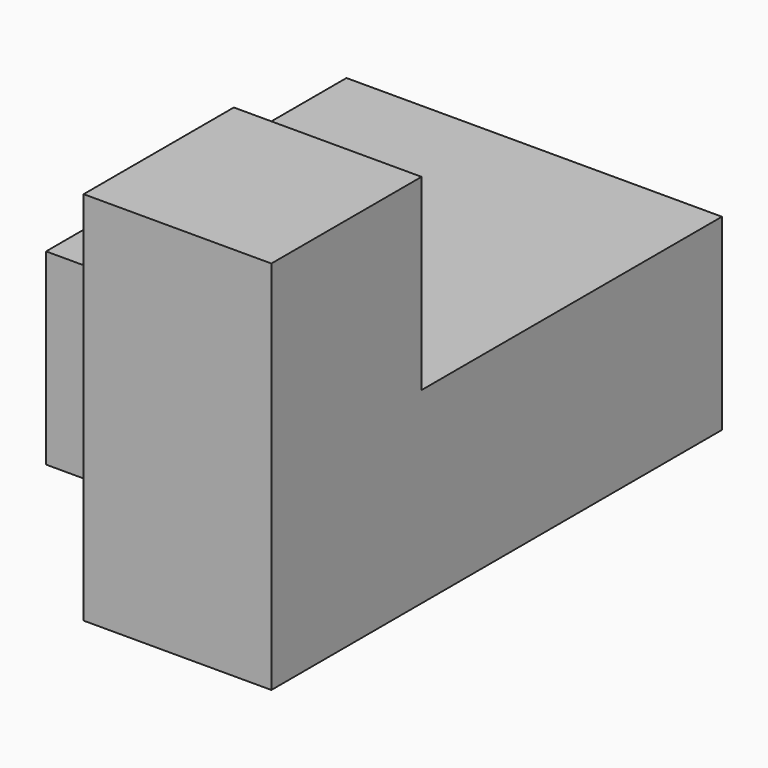
from build123d import *

# Parameters (mm, degrees)
F0_W     = 38.1
F0_H     = 38.1
F1_DEPTH = 19.05
F2_W     = 19.05
F2_H     = 19.05
F3_DEPTH = 19.05
F4_W     = 19.05
F4_H     = 19.05
F5_DEPTH = 19.05


with BuildPart() as f1:
    # F0 (on Top) → F1 (new body)
    with BuildSketch(Plane.XY):
        Rectangle(F0_W, F0_H)
    extrude(amount=F1_DEPTH)

    # F2 (on face) → F3 (join)
    with BuildSketch(Plane.XZ.offset(19.05)):
        with Locations((9.525, 9.525)):
            Rectangle(F2_W, F2_H)
    extrude(amount=F3_DEPTH)

    # F4 (on face) → F5 (join)
    with BuildSketch(Plane.XY.offset(19.05)):
        with Locations((9.525, -28.575)):
            Rectangle(F4_W, F4_H)
    extrude(amount=F5_DEPTH)


solid = f1.part
